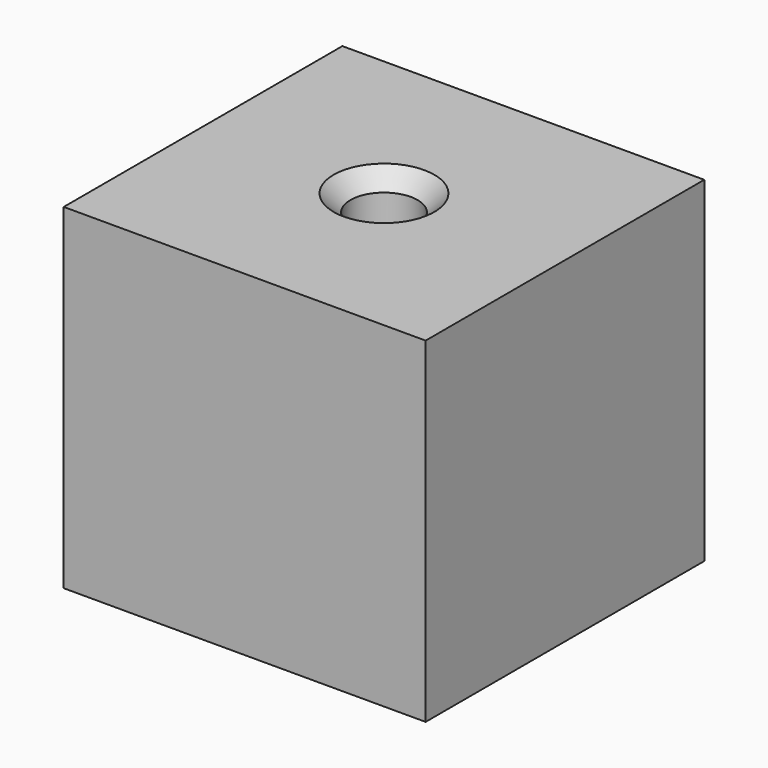
from build123d import *

# Parameters (mm, degrees)
F0_W           = 53.9018362761
F0_H           = 51.8770068884
F1_DEPTH       = 25
F3_D           = 10
F3_DEPTH       = 45
F3_CSINK_D     = 15
F3_CSINK_ANGLE = 90
F3_TIP         = 3.0043030951


with BuildPart() as f1:
    # F0 (on Top) → F1 (new body, symmetric)
    with BuildSketch(Plane.XY):
        Rectangle(F0_W, F0_H)
    extrude(amount=F1_DEPTH, both=True)

    # F3
    with Locations(Plane.XY.offset(25)):
        with Locations((0, 0)):
            CounterSinkHole(F3_D / 2, F3_CSINK_D / 2, depth=F3_DEPTH, counter_sink_angle=F3_CSINK_ANGLE)
            with Locations((0, 0, -(F3_DEPTH + F3_TIP / 2))):  # 118° drill point
                Cone(0, F3_D / 2, F3_TIP, mode=Mode.SUBTRACT)


solid = f1.part
